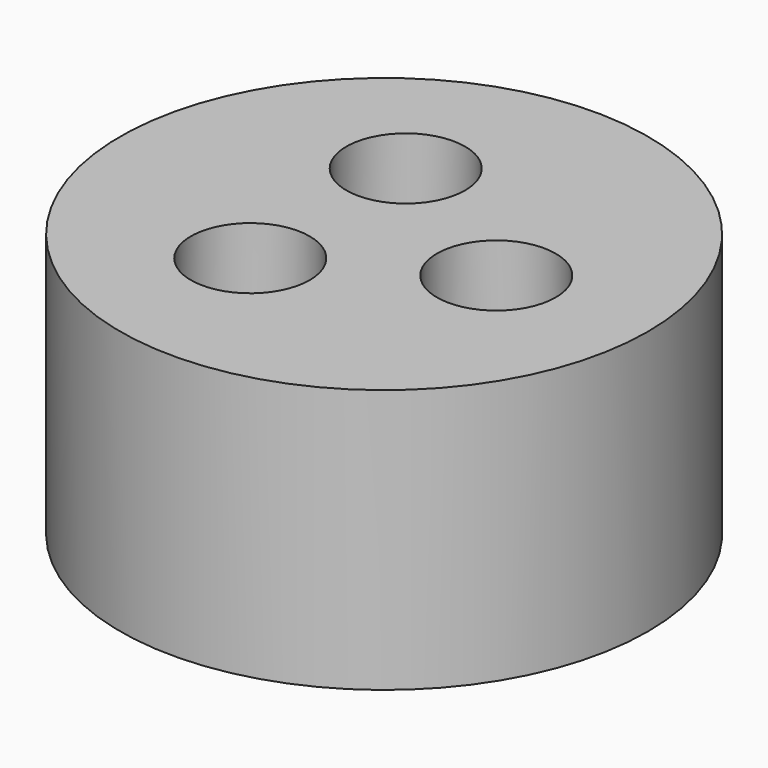
from build123d import *

# Parameters (mm, degrees)
CYLINDER157_R     = 2.25
CYLINDER157_DEPTH = 7
CYLINDER156_R     = 1
CYLINDER156_DEPTH = 14
CYLINDER147_R     = 1
CYLINDER147_DEPTH = 1
ARRAY_COUNT       = 3
CYLINDER153_R     = 10
CYLINDER153_DEPTH = 10


with BuildPart() as sealsubtraction:
    # Cylinder157 → Cylinder157 (new body)
    with BuildSketch(Plane.XY.offset(4.5)):
        Circle(CYLINDER157_R)
    extrude(amount=CYLINDER157_DEPTH)


with BuildPart() as bottomwireoutlet:
    # Cylinder156 → Cylinder156 (new body)
    with BuildSketch(Plane.XY.offset(-7)):
        Circle(CYLINDER156_R)
    extrude(amount=CYLINDER156_DEPTH)


with BuildPart() as sealarray:
    # Cylinder147 → Cylinder147 (new body)
    with BuildSketch(Plane.XY.offset(4.5)):
        Circle(CYLINDER147_R)
    extrude(amount=CYLINDER147_DEPTH)

    # Fusion: union SealSubtraction, BottomWireOutlet
    add(sealsubtraction.part)
    add(bottomwireoutlet.part)


with BuildPart() as sealarray_1:
    # Fusion placement: moved
    add(sealarray.part.moved(Location((4.25, 0, 0))))

    # Array: SealArray ×3 about axis
    array_axis = Axis((0, 0, 0), (0, 0, 1))


with BuildPart() as sealarray_2:
    add(sealarray_1.part)
    for i in range(1, ARRAY_COUNT):
        add(sealarray_1.part.rotate(array_axis, i * 360 / ARRAY_COUNT))


with BuildPart() as cut:
    # Cylinder153 → Cylinder153 (new body)
    with BuildSketch(Plane.XY.offset(-2)):
        Circle(CYLINDER153_R)
    extrude(amount=CYLINDER153_DEPTH)

    # Cut: cut SealArray
    add(sealarray_2.part, mode=Mode.SUBTRACT)


solid = cut.part
